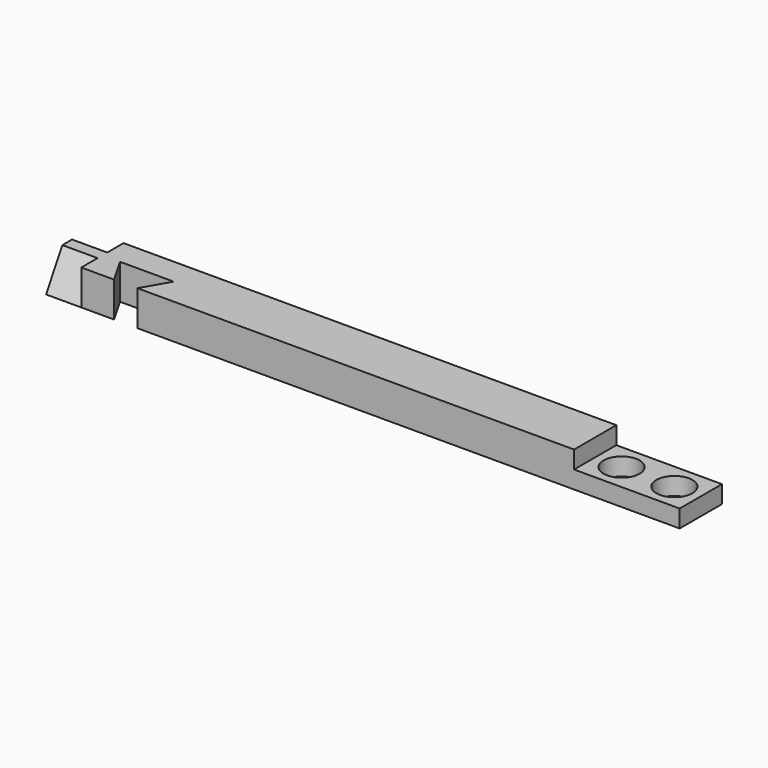
from build123d import *

# Parameters (mm, degrees)
SKETCH_W        = 170
SKETCH_H        = 15
PAD_DEPTH       = 10
SKETCH001_W     = 35
SKETCH001_H     = 25
POCKET_DEPTH    = 5
PAD002_DEPTH    = 10
POCKET001_DEPTH = 10
SKETCH002_R     = 5.125
POCKET002_DEPTH = 5


with BuildPart() as part:
    # Sketch → Pad (new body)
    with BuildSketch(Plane.XY):
        with Locations((-20.728933, -1.58076)):
            Rectangle(SKETCH_W, SKETCH_H)
    extrude(amount=PAD_DEPTH)

    # Sketch001 (on Face6 of Pad) → Pocket (cut)
    with BuildSketch(Plane.XY.offset(10)):
        with Locations((51.771067, -1.58076)):
            Rectangle(SKETCH001_W, SKETCH001_H)
    extrude(amount=-POCKET_DEPTH, mode=Mode.SUBTRACT)

    # Sketch003 → Pad002 (join)
    with BuildSketch(Plane(origin=(-105.728933, 0, 0), x_dir=(0, -1, 0), z_dir=(-1, 0, 0))):
        Polygon((-5.91924, 0), (-0.145737, 10), (3.307257, 10), (9.08076, 0), align=None)
    extrude(amount=PAD002_DEPTH)

    # Sketch004 (on Face3 of Pad002) → Pocket001 (cut)
    with BuildSketch(Plane.XY.offset(10)):
        Polygon((-93.103933, -14.787648), (-100.728933, -1.58076), (-85.478933, -1.58076), align=None)
    extrude(amount=-POCKET001_DEPTH, mode=Mode.SUBTRACT)

    # Sketch002 (on Face7 of Pocket) → Pocket002 (cut)
    with BuildSketch(Plane.XY.offset(5)):
        with Locations((56.771067, -1.58076)):
            Circle(SKETCH002_R)
        with Locations((41.771067, -1.58076)):
            Circle(SKETCH002_R)
    extrude(amount=-POCKET002_DEPTH, mode=Mode.SUBTRACT)


solid = part.part
